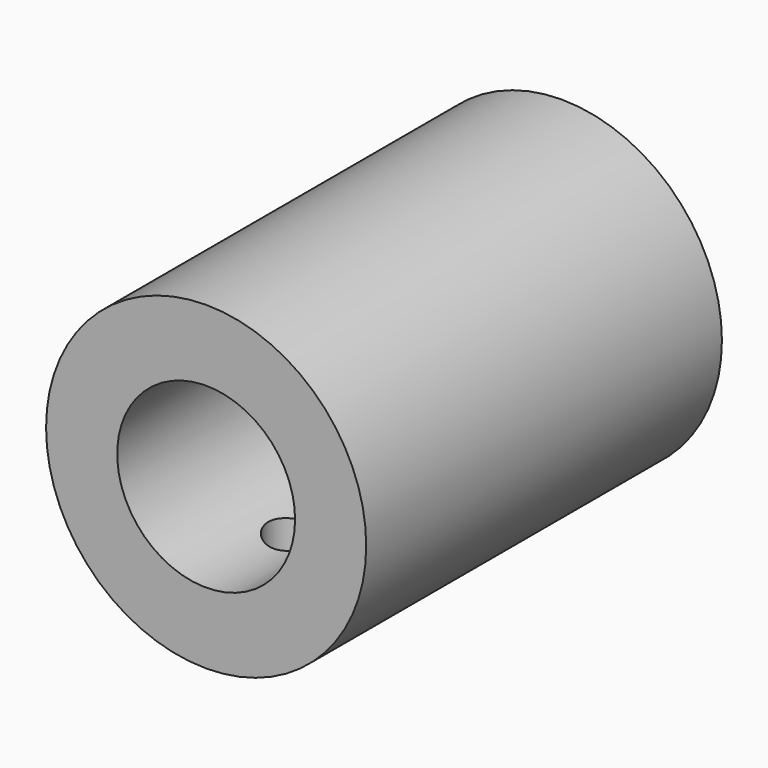
from build123d import *

# Parameters (mm, degrees)
F0_R     = 9
F1_DEPTH = 25
F2_R     = 5
F3_DEPTH = 12.5
F4_R     = 2.5
F5_DEPTH = 12.5
F6_R     = 1.5
F7_DEPTH = 25


with BuildPart() as f1:
    # F0 (on Front) → F1 (new body)
    with BuildSketch(Plane.XZ):
        Circle(F0_R)
    extrude(amount=F1_DEPTH)

    # F2 (on face) → F3 (cut)
    with BuildSketch(Plane.XZ.offset(25)):
        Circle(F2_R)
    extrude(amount=-F3_DEPTH, mode=Mode.SUBTRACT)

    # F4 (on face) → F5 (cut)
    with BuildSketch(Plane(origin=(0, 0, 0), x_dir=(-1, 0, 0), z_dir=(0, 1, 0))):
        Circle(F4_R)
    extrude(amount=-F5_DEPTH, mode=Mode.SUBTRACT)

    # F6 (on Top) → F7 (cut)
    with BuildSketch(Plane.XY):
        with Locations((0, -6.25)):
            Circle(F6_R)
        with Locations((0, -18.75)):
            Circle(F6_R)
    extrude(amount=-F7_DEPTH, mode=Mode.SUBTRACT)


solid = f1.part
